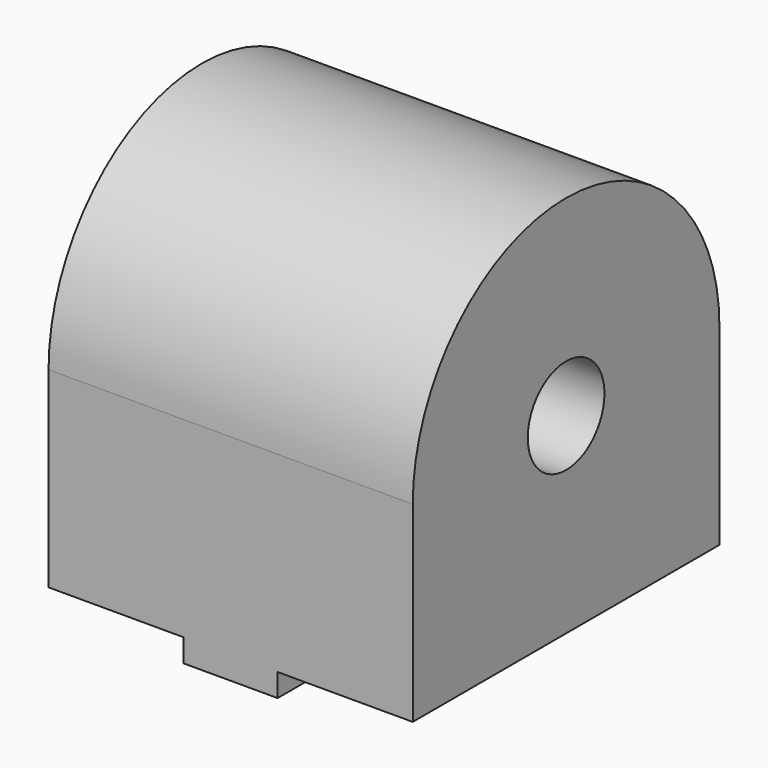
from build123d import *

# Parameters (mm, degrees)
F1_DEPTH      = 12.065
F2_W          = 6.223
F2_H          = 1.524
F3_DEPTH      = 12.7
F3_DEPTH_BACK = 12.7
F4_W          = 12.954
F4_H          = 1.524
F5_DEPTH      = 6.223


with BuildPart() as f1:
    # F0 (on Right) → F1 (new body, symmetric)
    with BuildSketch(Plane.YZ):
        with BuildLine():
            ThreePointArc((-3.175, 12.7), (0, 15.875), (3.175, 12.7))
            Line((3.175, 12.7), (12.7, 12.7))
            ThreePointArc((12.7, 12.7), (0, 25.4), (-12.7, 12.7))
            Line((-12.7, 12.7), (-3.175, 12.7))
        make_face()
        with BuildLine():
            Line((12.7, 12.7), (3.175, 12.7))
            ThreePointArc((3.175, 12.7), (0, 9.525), (-3.175, 12.7))
            Line((-3.175, 12.7), (-12.7, 12.7))
            Line((-12.7, 12.7), (-12.7, 0))
            Line((-12.7, 0), (12.7, 0))
            Line((12.7, 0), (12.7, 12.7))
        make_face()
    extrude(amount=F1_DEPTH, both=True)

    # F2 (on Front) → F3 (join, two sides)
    with BuildSketch(Plane.XZ) as f3_sk:
        with Locations((0, -0.762)):
            Rectangle(F2_W, F2_H)
    extrude(amount=F3_DEPTH)
    extrude(f3_sk.sketch, amount=-F3_DEPTH_BACK)

    # F4 (on face) → F5 (cut, through all)
    with BuildSketch(Plane(origin=(-3.1115, 0, 0), x_dir=(0, -1, 0), z_dir=(-1, 0, 0))):
        with Locations((0, -0.762)):
            Rectangle(F4_W, F4_H)
    extrude(amount=-F5_DEPTH, mode=Mode.SUBTRACT)


solid = f1.part
